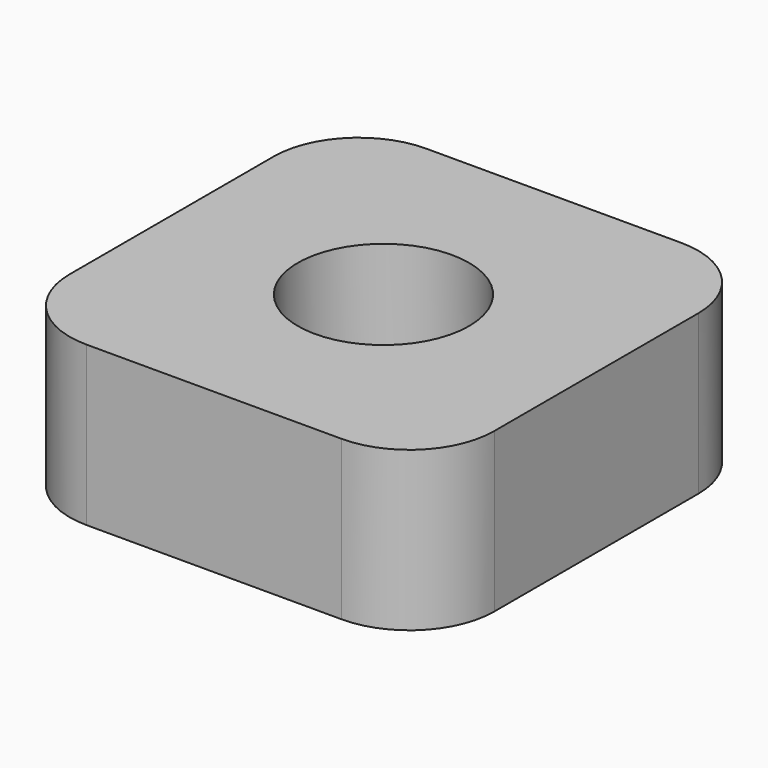
from build123d import *

# Parameters (mm, degrees)
SKETCH_W     = 40.07407
SKETCH_H     = 40.074074
PAD_DEPTH    = 15
SKETCH001_R  = 8.083249
POCKET_DEPTH = 15.001
FILLET_R     = 8


with BuildPart() as part:
    # Sketch → Pad (new body)
    with BuildSketch(Plane.XY):
        with Locations((20.037035, 20.037037)):
            Rectangle(SKETCH_W, SKETCH_H)
    extrude(amount=PAD_DEPTH)

    # Sketch001 (on Face6 of Pad) → Pocket (cut, through all)
    with BuildSketch(Plane.XY.offset(15)):
        with Locations((20.074074, 19.925928)):
            Circle(SKETCH001_R)
    extrude(amount=-POCKET_DEPTH, mode=Mode.SUBTRACT)

    # Fillet
    fillet_edges = [part.edges().sort_by_distance(p)[0] for p in [
        (40.07407, 0, 7.5),
        (40.07407, 40.074074, 7.5),
        (0, 40.074074, 7.5),
        (0, 0, 7.5),
    ]]
    fillet(fillet_edges, radius=FILLET_R)


solid = part.part
